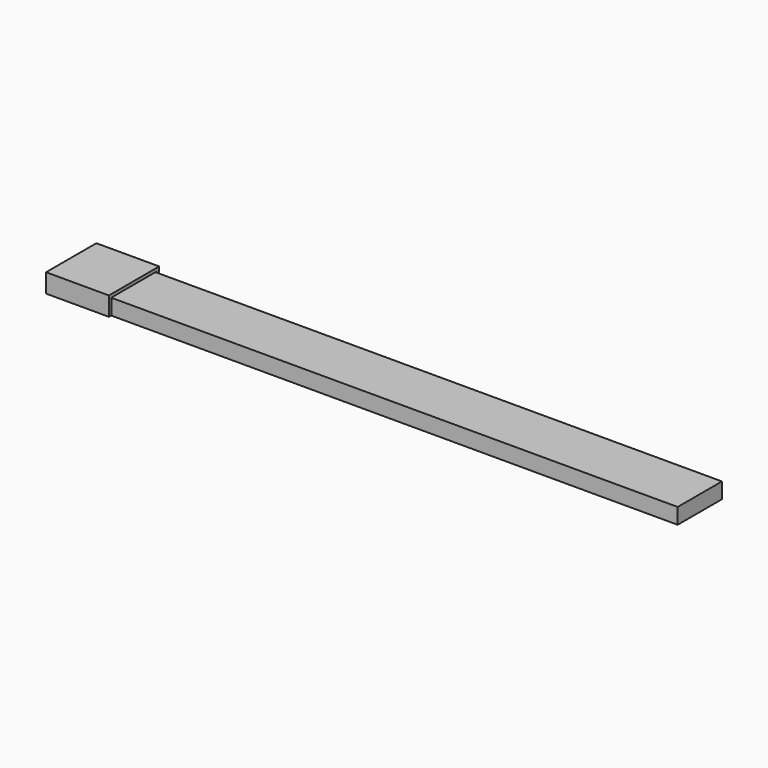
from build123d import *

# Parameters (mm, degrees)
F1_DEPTH = 100
F2_W     = 88
F2_H     = 25
F3_DEPTH = 1000


with BuildPart() as f1:
    # F0 (on Right) → F1 (new body)
    with BuildSketch(Plane.YZ):
        Polygon((50, -30), (50, 0), (-50, 0), (-50, -30), (-45, -30), (-45, -5), (45, -5), (45, -30), align=None)
    extrude(amount=F1_DEPTH)


with BuildPart() as f3:
    # F2 (on Right) → F3 (new body)
    with BuildSketch(Plane.YZ):
        with Locations((0, -18.5)):
            Rectangle(F2_W, F2_H)
    extrude(amount=F3_DEPTH)


solid = Compound([f1.part, f3.part])
